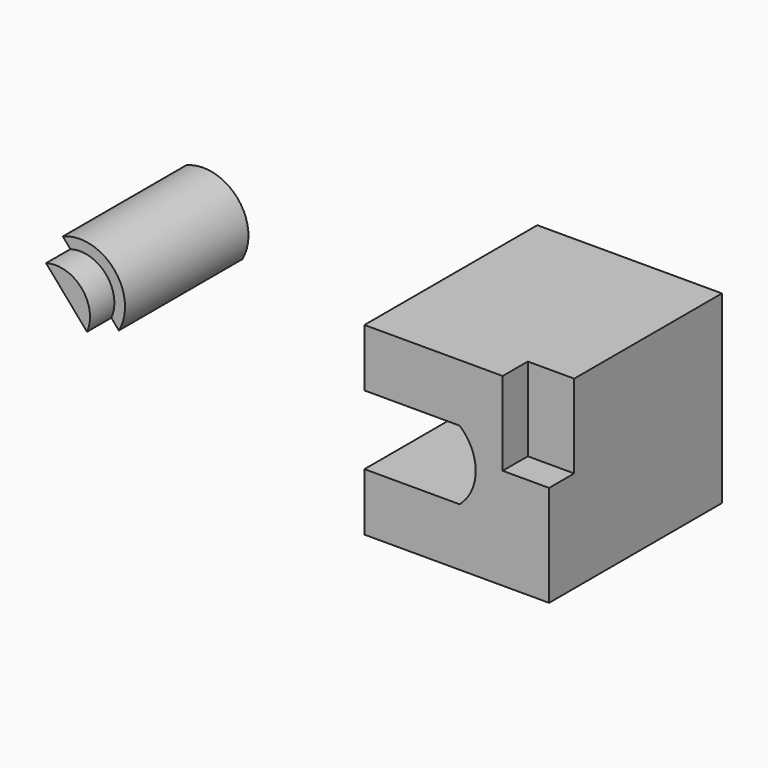
from build123d import *

# Parameters (mm, degrees)
F0_W      = 25.4
F0_H      = 25.4
F1_DEPTH  = 25.4
F4_DEPTH  = 31.1095197333
F6_DEPTH  = 25.4
F8_W      = 1.4728852918
F8_H      = 4.1794891745
F11_DEPTH = 4.318


with BuildPart() as f1:
    # F0 (on Front) → F1 (new body)
    with BuildSketch(Plane.XZ):
        with Locations((12.7, 12.7)):
            Rectangle(F0_W, F0_H)
    extrude(amount=F1_DEPTH)

    # F3 (on face) → F4 (cut, through all)
    with BuildSketch(Plane(origin=(1.7014773719, 6.35, 0), x_dir=(-0.9659258263, 0.2588190451, 0), z_dir=(0.2588190451, 0.9659258263, 0))):
        with BuildLine():
            Line((0, 17.4625), (-19.2096461941, 17.4625))
            ThreePointArc((-19.2096461941, 17.4625), (-21.3595159877, 12.7), (-19.2096461941, 7.9375))
            Line((-19.2096461941, 7.9375), (0, 7.9375))
            Line((0, 7.9375), (0, 17.4625))
        make_face()
    extrude(amount=-F4_DEPTH, mode=Mode.SUBTRACT)

    # F10 (on face) → F11 (join)
    with BuildSketch(Plane.XZ.offset(25.4)):
        with BuildLine():
            Line((19.0142672509, 13.9198685065), (19.0142672509, 25.4))
            Line((19.0142672509, 25.4), (0, 25.4))
            Line((0, 25.4), (0, 17.4625))
            Line((0, 17.4625), (13.0813796511, 17.4625))
            add(Edge.make_bspline(
                [(13.0813796511, 7.9375), (18.6720443389, 12.7), (13.0813796511, 17.4625)],
                knots=[5.4351232282, 5.4351232282, 5.4351232282, 7.1312473862, 7.1312473862, 7.1312473862], degree=2, weights=[1, 0.6614378278, 1]))
            Line((13.0813796511, 7.9375), (0, 7.9375))
            Line((0, 7.9375), (0, 0))
            Line((0, 0), (25.4, 0))
            Line((25.4, 0), (25.4, 13.9198685065))
            Line((25.4, 13.9198685065), (19.0142672509, 13.9198685065))
        make_face()
    extrude(amount=F11_DEPTH)


with BuildPart() as f6:
    # F5 (on Front) → F6 (new body)
    with BuildSketch(Plane.XZ):
        with BuildLine():
            Line((-48.2925241717, 16.9579145359), (-40.5879244208, 8.0737629905))
            ThreePointArc((-40.5879244208, 8.0737629905), (-41.2528093466, 15.2800595559), (-48.2925241717, 16.9579145359))
        make_face()
    extrude(amount=F6_DEPTH)

    # F8 (on face) → F9 (revolve, cut)
    with BuildSketch(Plane(origin=(0, 0, 11.2136096217), x_dir=(1, 0, 0), z_dir=(0, 0, -1))):
        with Locations((-40.4715861474, 23.3102554128)):
            Rectangle(F8_W, F8_H)
    revolve(axis=Axis((-45.9418209286, 0, 11.2136096217), (0, 1, 0)), mode=Mode.SUBTRACT)


solid = Compound([f1.part, f6.part])
